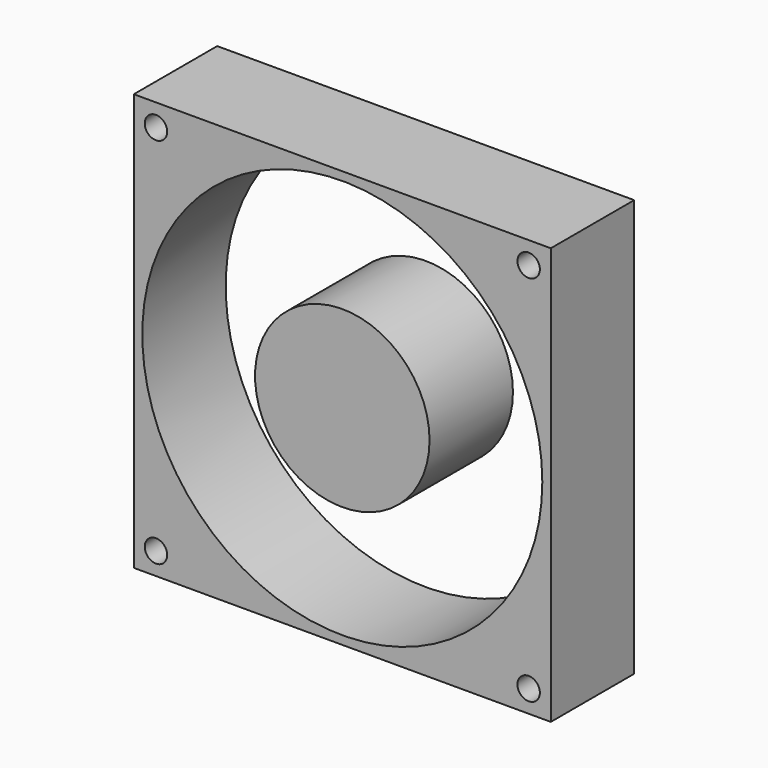
from build123d import *

# Parameters (mm, degrees)
F0_W     = 80
F0_H     = 80
F1_DEPTH = 20
F2_R     = 2.15
F3_DEPTH = 25
F4_R     = 38.371793
F4_R_2   = 16.738332
F5_DEPTH = 25


with BuildPart() as f1:
    # F0 (on Front) → F1 (new body)
    with BuildSketch(Plane.XZ):
        Rectangle(F0_W, F0_H)
    extrude(amount=F1_DEPTH)

    # F2 (on face) → F3 (cut)
    with BuildSketch(Plane.XZ.offset(20)):
        with Locations((-35.75, 35.75)):
            Circle(F2_R)
        with Locations((-35.75, -35.75)):
            Circle(F2_R)
        with Locations((35.75, 35.75)):
            Circle(F2_R)
        with Locations((35.75, -35.75)):
            Circle(F2_R)
    extrude(amount=-F3_DEPTH, mode=Mode.SUBTRACT)

    # F4 (on face) → F5 (cut)
    with BuildSketch(Plane.XZ.offset(20)):
        Circle(F4_R)
        Circle(F4_R_2, mode=Mode.SUBTRACT)
    extrude(amount=-F5_DEPTH, mode=Mode.SUBTRACT)


solid = f1.part
